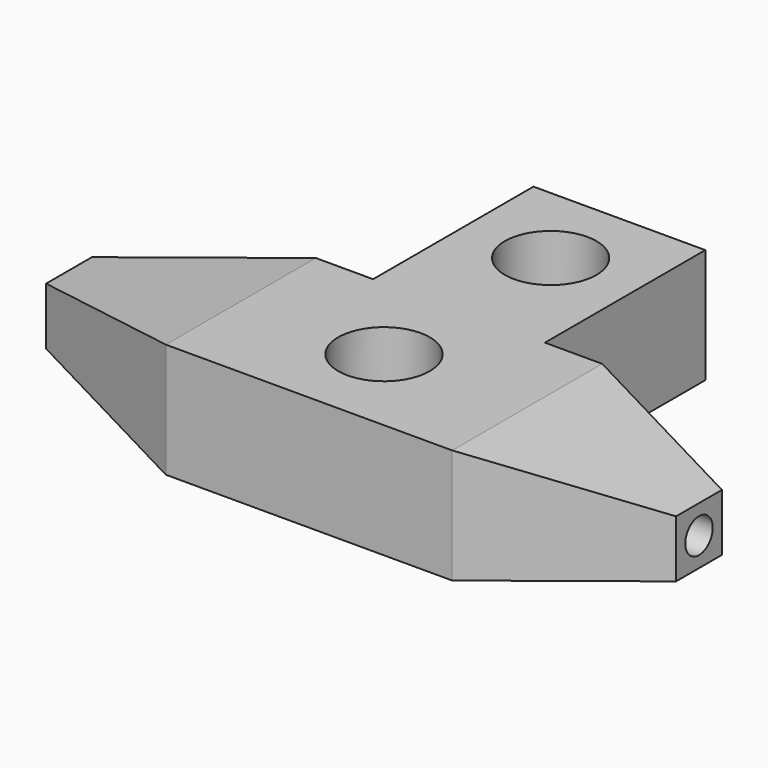
from build123d import *

# Parameters (mm, degrees)
F0_R           = 4
F0_W           = 15
F0_H           = 15
F1_DEPTH       = 10
F3_DEPTH       = 25
F5_DEPTH       = 25
F6_SIZE2       = 2.5
F6_SIZE        = 15
F6_2_SIZE2     = 2.5
F6_2_SIZE      = 15
F9_D           = 3
F9_DEPTH       = 10
F9_TIP         = 0.9012909285
F9_ON_F7_D     = 3
F9_ON_F7_DEPTH = 10
F9_ON_F7_TIP   = 0.9012909285


with BuildPart() as f1:
    # F0 (on Top) → F1 (new body)
    with BuildSketch(Plane.XY):
        Polygon((59.23548, -2.5), (39.23548, -2.5), (31.73548, -2.5), (24.23548, -2.5), (4.23548, -2.5), (4.23548, -18.87192), (15.86774, -18.87192), (59.23548, -18.87192), align=None)
        with Locations((31.73548, -10.68596)):
            Circle(F0_R, mode=Mode.SUBTRACT)
        Polygon((39.23548, -2.5), (39.23548, 0), (24.23548, 0), (24.23548, -2.5), (31.73548, -2.5), align=None)
        with Locations((31.73548, 7.5)):
            Rectangle(F0_W, F0_H)
        with Locations((31.73548, 7.5)):
            Circle(F0_R, mode=Mode.SUBTRACT)
    extrude(amount=F1_DEPTH)

    # F2 (on face) → F3 (cut)
    with BuildSketch(Plane.XY.offset(10)):
        Polygon((44.23548, -2.5), (59.23548, -8.18596), (59.23548, -2.5), align=None)
        Polygon((59.23548, -18.87192), (59.23548, -13.18596), (44.23548, -18.87192), align=None)
    extrude(amount=-F3_DEPTH, mode=Mode.SUBTRACT)

    # F4 (on face) → F5 (cut)
    with BuildSketch(Plane.XY.offset(10)):
        Polygon((19.23548, -2.5), (4.23548, -2.5), (4.23548, -8.18596), align=None)
        Polygon((4.23548, -18.87192), (19.23548, -18.87192), (4.23548, -13.18596), align=None)
    extrude(amount=-F5_DEPTH, mode=Mode.SUBTRACT)

    # F6
    f6_edges = [f1.edges().sort_by_distance(p)[0] for p in [
        (4.23548, -10.68596, 10),
        (59.23548, -10.68596, 10),
    ]]
    f6_side = f1.faces().sort_by_distance((51.506527, -5.946976, 10))[0]
    chamfer(f6_edges, length=F6_SIZE, length2=F6_SIZE2, reference=f6_side)

    # F6#2
    f6_2_edges = [f1.edges().sort_by_distance(p)[0] for p in [
        (4.23548, -10.68596, 0),
        (59.23548, -10.68596, 0),
    ]]
    f6_2_side = f1.faces().sort_by_distance((51.506527, -5.946976, 0))[0]
    chamfer(f6_2_edges, length=F6_2_SIZE, length2=F6_2_SIZE2, reference=f6_2_side)

    # F9
    with Locations(Plane.YZ.offset(59.23548)):
        with Locations((-10.68596, 5)):
            Hole(F9_D / 2, depth=F9_DEPTH)
            with Locations((0, 0, -(F9_DEPTH + F9_TIP / 2))):  # 118° drill point
                Cone(0, F9_D / 2, F9_TIP, mode=Mode.SUBTRACT)

    # F9 on F7
    with Locations(Plane(origin=(4.23548, 0, 0), x_dir=(0, -1, 0), z_dir=(-1, 0, 0))):
        with Locations((10.68596, 5)):
            Hole(F9_ON_F7_D / 2, depth=F9_ON_F7_DEPTH)
            with Locations((0, 0, -(F9_ON_F7_DEPTH + F9_ON_F7_TIP / 2))):  # 118° drill point
                Cone(0, F9_ON_F7_D / 2, F9_ON_F7_TIP, mode=Mode.SUBTRACT)


solid = f1.part
